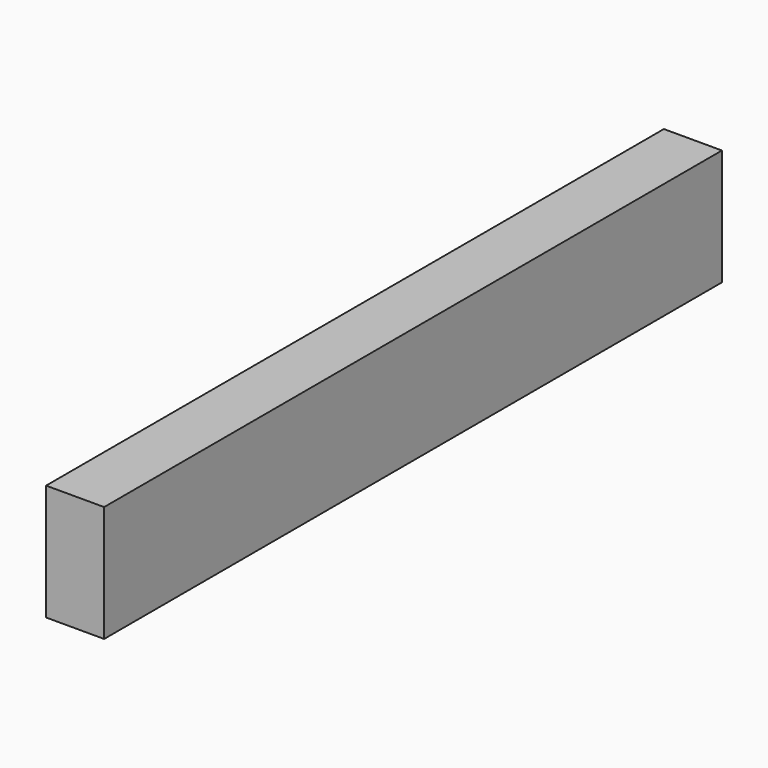
from build123d import *

# Parameters (mm, degrees)
F0_W     = 100
F0_H     = 200
F1_DEPTH = 1330
F2_R     = 10
F3_DEPTH = 100


with BuildPart() as f1:
    # F0 (on Front) → F1 (new body)
    with BuildSketch(Plane.XZ):
        with Locations((-50, 100)):
            Rectangle(F0_W, F0_H)
    extrude(amount=F1_DEPTH)

    # F2 (on face) → F3 (cut)
    with BuildSketch(Plane(origin=(0, 0, 0), x_dir=(1, 0, 0), z_dir=(0, 0, -1))):
        with Locations((-50, 1155)):
            Circle(F2_R)
        with Locations((-50, 930)):
            Circle(F2_R)
        with Locations((-50, 655)):
            Circle(F2_R)
        with Locations((-50, 400)):
            Circle(F2_R)
        with Locations((-50, 175)):
            Circle(F2_R)
    extrude(amount=-F3_DEPTH, mode=Mode.SUBTRACT)


solid = f1.part
